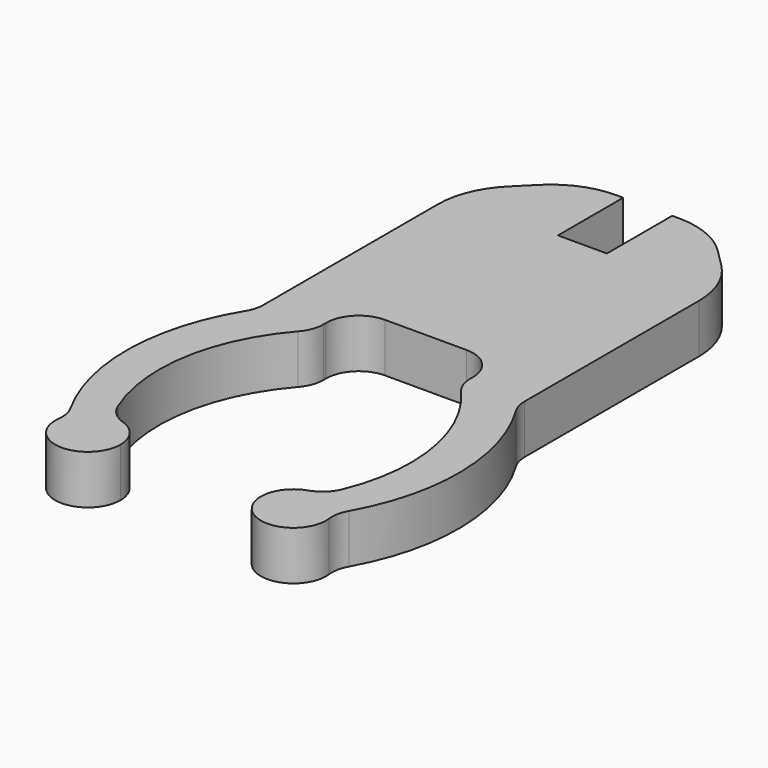
from build123d import *

# Parameters (mm, degrees)
F2_DEPTH = 1.5
F5_W     = 3
F5_H     = 5
F6_DEPTH = 25
F7_SIZE  = 4
F8_R     = 5
F9_R     = 2


with BuildPart() as f2:
    # F1 (on Top) → F2 (new body, symmetric)
    with BuildSketch(Plane.XY):
        with BuildLine():
            ThreePointArc((25.939839122, -44.6497348995), (25.3779596461, -43.9442064652), (24.8663520645, -43.2014167241))
            ThreePointArc((24.8663520645, -43.2014167241), (26.2921371989, -45.9579703612), (28.7, -44))
            ThreePointArc((28.7, -44), (28.0793670217, -42.5517781181), (26.6026533807, -42.0023704959))
            ThreePointArc((26.6026533807, -42.0023704959), (27.0242100762, -42.7170517529), (27.4984385882, -43.3979237417))
            ThreePointArc((27.4984385882, -43.3979237417), (27.6482717407, -43.6825402295), (27.7, -44))
            ThreePointArc((27.7, -44), (27.0462940384, -44.9381260251), (25.939839122, -44.6497348995))
        make_face()
        with BuildLine():
            ThreePointArc((27.4984385882, -43.3979237417), (26.0738018768, -43.2203360272), (25.939839122, -44.6497348995))
            ThreePointArc((25.939839122, -44.6497348995), (27.0462940384, -44.9381260251), (27.7, -44))
            ThreePointArc((27.7, -44), (27.6482717407, -43.6825402295), (27.4984385882, -43.3979237417))
        make_face()
        with BuildLine():
            ThreePointArc((26.6026533807, -42.0023704959), (25.5635084879, -42.3542822104), (24.8663520645, -43.2014167241))
            ThreePointArc((24.8663520645, -43.2014167241), (25.3779596461, -43.9442064652), (25.939839122, -44.6497348995))
            ThreePointArc((25.939839122, -44.6497348995), (26.0738018768, -43.2203360272), (27.4984385882, -43.3979237417))
            ThreePointArc((27.4984385882, -43.3979237417), (27.0242100762, -42.7170517529), (26.6026533807, -42.0023704959))
        make_face()
        with BuildLine():
            Line((28.5, -29), (25, -29))
            ThreePointArc((25, -29), (22.8225061684, -36.0808450853), (24.8663520645, -43.2014167241))
            ThreePointArc((24.8663520645, -43.2014167241), (25.5635084879, -42.3542822104), (26.6026533807, -42.0023704959))
            ThreePointArc((26.6026533807, -42.0023704959), (25.3965398825, -35.1867520093), (28.5, -29))
        make_face()
        Polygon((33, -9), (25, -9), (25, -29), (28.5, -29), (28.5, -26), (33, -26), align=None)
    extrude(amount=F2_DEPTH, both=True)


with BuildPart() as f2_1:
    # F3: moved
    add(f2.part.moved(Location((-33, 26, 0))))

    # F4: F2 across plane


with BuildPart() as f2_2:
    add(f2_1.part)
    add(f2_1.part.mirror(Plane.YZ))

    # F5 (on face) → F6 (cut)
    with BuildSketch(Plane.XY.offset(1.5)):
        with Locations((0, 14.5)):
            Rectangle(F5_W, F5_H)
    extrude(amount=-F6_DEPTH, mode=Mode.SUBTRACT)

    # F7
    f7_edges = [f2_2.edges().sort_by_distance(p)[0] for p in [
        (-8, 17, 0),
        (8, 17, 0),
    ]]
    chamfer(f7_edges, length=F7_SIZE)

    # F8
    f8_edges = [f2_2.edges().sort_by_distance(p)[0] for p in [
        (-8, 13, 0),
        (-4, 17, 0),
        (4, 17, 0),
        (8, 13, 0),
    ]]
    fillet(f8_edges, radius=F8_R)

    # F9
    f9_edges = [f2_2.edges().sort_by_distance(p)[0] for p in [
        (-8, -3, 0),
        (-4.5, -3, 0),
        (4.5, -3, 0),
        (8, -3, 0),
        (-4.5, 0, 0),
        (4.5, 0, 0),
        (-8.133648, -17.201417, 0),
        (-6.397347, -16.00237, 0),
        (8.133648, -17.201417, 0),
        (6.397347, -16.00237, 0),
    ]]
    fillet(f9_edges, radius=F9_R)


solid = f2_2.part
